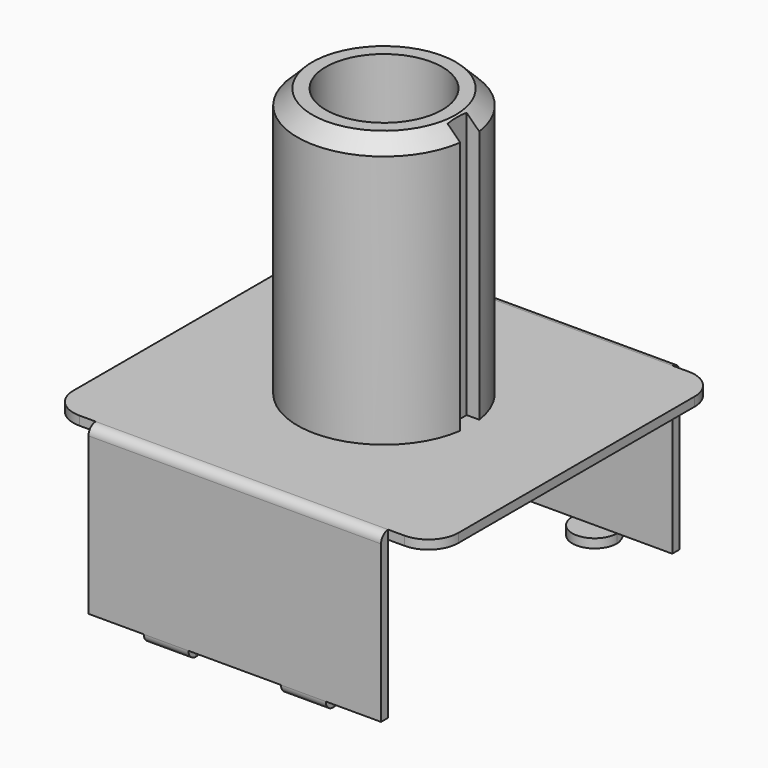
from build123d import *

# Parameters (mm, degrees)
SKETCH005_W     = 12.9
SKETCH005_H     = 11.9
PAD003_DEPTH    = 0.3
FILLET003_R     = 1
PAD004_DEPTH    = 5.55
PAD005_DEPTH    = 0.3
FILLET004_R     = 0.3
SKETCH008_R     = 2.9
PAD006_DEPTH    = 9
SKETCH009_R     = 1.95
POCKET002_DEPTH = 5
CHAMFER_SIZE    = 0.5
SKETCH010_W     = 0.5
SKETCH010_H     = 0.8
POCKET003_DEPTH = 9


with BuildPart() as part:
    # Sketch005 → Pad003 (new body)
    with BuildSketch(Plane.XY):
        Rectangle(SKETCH005_W, SKETCH005_H)
    extrude(amount=-PAD003_DEPTH)

    # Fillet003
    fillet003_edges = [part.edges().sort_by_distance(p)[0] for p in [
        (-6.45, -5.95, -0.15),
        (-6.45, 5.95, -0.15),
        (6.45, 5.95, -0.15),
        (6.45, -5.95, -0.15),
    ]]
    fillet(fillet003_edges, radius=FILLET003_R)

    # Sketch006 (on Face2 of Fillet003) → Pad004 (join)
    with BuildSketch(Plane.XY):
        Polygon((-4.901521, 6.25), (4.898479, 6.25), (4.898479, 5.95), (-4.9, 5.95), align=None)
        Polygon((4.901521, -6.25), (-4.9, -6.25), (-4.9, -5.949996), (4.9, -5.949996), align=None)
    extrude(amount=-PAD004_DEPTH)

    # Sketch007 (on Face21 of Pad004) → Pad005 (join)
    with BuildSketch(Plane(origin=(0, 0, -5.55), x_dir=(1, 0, 0), z_dir=(0, 0, -1))):
        with BuildLine():
            ThreePointArc((-3.05, 5.95), (-2.3, 5.2), (-1.55, 5.95))
            Line((-1.55, 5.95), (-1.55, 6.25))
            Line((-3.05, 6.25), (-1.55, 6.25))
            Line((-3.05, 6.25), (-3.05, 5.95))
        make_face()
        with BuildLine():
            ThreePointArc((1.55, 5.95), (2.3, 5.2), (3.05, 5.95))
            Line((3.05, 5.95), (3.05, 6.25))
            Line((1.55, 6.25), (3.05, 6.25))
            Line((1.55, 6.25), (1.55, 5.95))
        make_face()
        with BuildLine():
            ThreePointArc((-1.55, -5.95), (-2.3, -5.2), (-3.05, -5.95))
            Line((-3.05, -5.95), (-3.05, -6.25))
            Line((-3.05, -6.25), (-1.55, -6.25))
            Line((-1.55, -6.25), (-1.55, -5.95))
        make_face()
        with BuildLine():
            ThreePointArc((3.05, -5.95), (2.3, -5.2), (1.55, -5.95))
            Line((1.55, -5.95), (1.55, -6.25))
            Line((1.55, -6.25), (3.05, -6.25))
            Line((3.05, -6.25), (3.05, -5.95))
        make_face()
    extrude(amount=PAD005_DEPTH)

    # Fillet004
    fillet004_edges = [part.edges().sort_by_distance(p)[0] for p in [
        (2.3, -6.25, -5.85),
        (-2.3, -6.25, -5.85),
        (2.3, 6.25, -5.85),
        (-2.3, 6.25, -5.85),
        (-0.001521, 6.25, 0),
        (0.000761, -6.25, 0),
    ]]
    fillet(fillet004_edges, radius=FILLET004_R)

    # Sketch008 (on Face1 of Fillet004) → Pad006 (join)
    with BuildSketch(Plane.XY):
        Circle(SKETCH008_R)
    extrude(amount=PAD006_DEPTH)

    # Sketch009 (on Face22 of Pad006) → Pocket002 (cut)
    with BuildSketch(Plane.XY.offset(9)):
        Circle(SKETCH009_R)
    extrude(amount=-POCKET002_DEPTH, mode=Mode.SUBTRACT)

    # Chamfer
    chamfer_edges = [part.edges().sort_by_distance(p)[0] for p in [
        (-2.9, 0, 9),
    ]]
    chamfer(chamfer_edges, length=CHAMFER_SIZE)

    # Sketch010 (on Face4 of Chamfer) → Pocket003 (cut)
    with BuildSketch(Plane.XY.offset(9)):
        with Locations((2.7, 0)):
            Rectangle(SKETCH010_W, SKETCH010_H)
    extrude(amount=-POCKET003_DEPTH, mode=Mode.SUBTRACT)


solid = part.part
